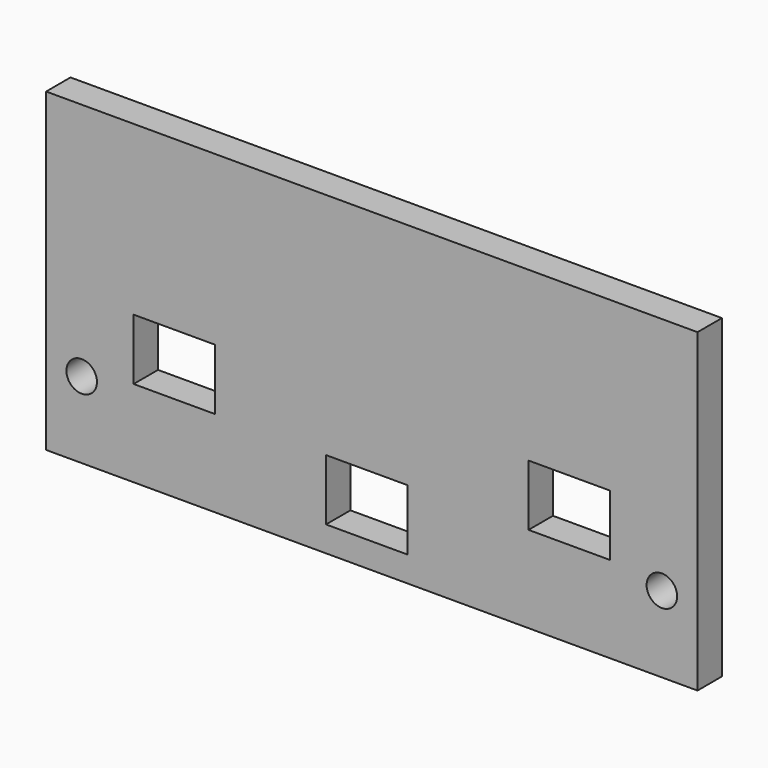
from build123d import *

# Parameters (mm, degrees)
SKETCH012_W     = 64
SKETCH012_H     = 31
PAD006_DEPTH    = 3
SKETCH013_R     = 1.5
POCKET006_DEPTH = 5
SKETCH014_W     = 8
SKETCH014_H     = 6
POCKET007_DEPTH = 5


with BuildPart() as part:
    # Sketch012 → Pad006 (new body)
    with BuildSketch(Plane.XZ.offset(-30)):
        with Locations((0, -2)):
            Rectangle(SKETCH012_W, SKETCH012_H)
    extrude(amount=PAD006_DEPTH)

    # Sketch013 (on Face5 of Pad006) → Pocket006 (cut)
    with BuildSketch(Plane(origin=(0, 30, 0), x_dir=(1, 0, 0), z_dir=(0, 1, 0))):
        with Locations((28.5, 10)):
            Circle(SKETCH013_R)
        with Locations((-28.5, 10)):
            Circle(SKETCH013_R)
    extrude(amount=-POCKET006_DEPTH, mode=Mode.SUBTRACT)

    # Sketch014 (on Face5 of Pocket006) → Pocket007 (cut)
    with BuildSketch(Plane.XZ.offset(-27)):
        with Locations((19.4, -6)):
            Rectangle(SKETCH014_W, SKETCH014_H)
        with Locations((-0.5, -12)):
            Rectangle(SKETCH014_W, SKETCH014_H)
        with Locations((-19.4, -6)):
            Rectangle(SKETCH014_W, SKETCH014_H)
    extrude(amount=-POCKET007_DEPTH, mode=Mode.SUBTRACT)


with BuildPart() as part_1:
    # Body004 placement: moved
    add(part.part.moved(Location((0, -57, 0))))


solid = part_1.part
